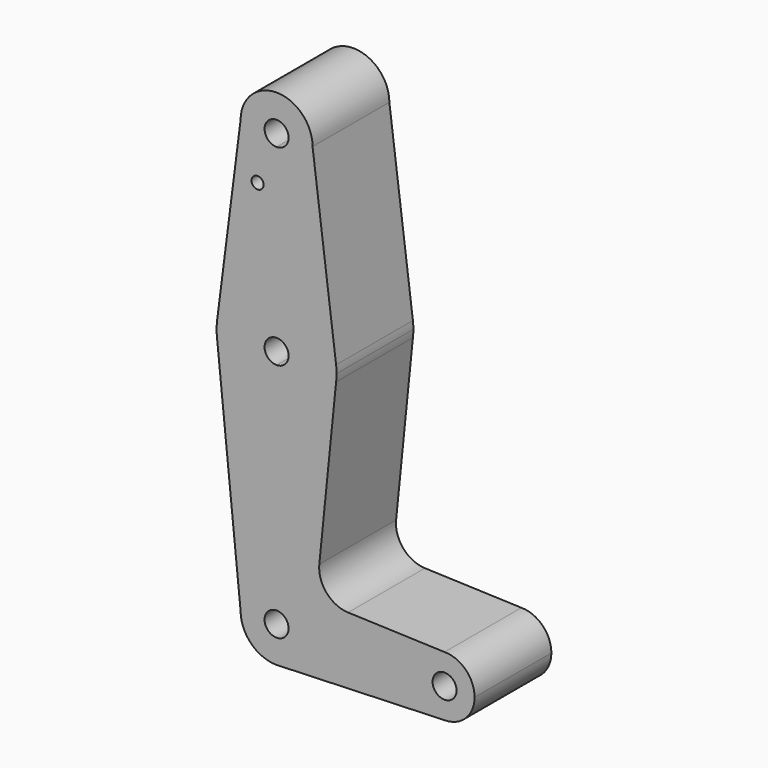
from build123d import *

# Parameters (mm, degrees)
F0_R     = 1.5875
F1_DEPTH = 25.4


with BuildPart() as f1:
    # F0 (on Front) → F1 (new body)
    with BuildSketch(Plane.XZ):
        with BuildLine():
            ThreePointArc((-53.4077063203, 56.5580051482), (-46.6725142295, 59.3478130574), (-43.8827063203, 66.0830051482))
            ThreePointArc((-43.8827063203, 66.0830051482), (-53.4077063203, 75.6080051482), (-62.9327063203, 66.0830051482))
            ThreePointArc((-62.9327063203, 66.0830051482), (-60.1428984111, 59.3478130574), (-53.4077063203, 56.5580051482))
        make_face()
        with BuildLine():
            ThreePointArc((-50.2327063203, 66.0830051482), (-51.16264229, 63.8379411179), (-53.4077063203, 62.9080051482))
            ThreePointArc((-53.4077063203, 62.9080051482), (-55.6527703506, 68.3280691784), (-50.2327063203, 66.0830051482))
        make_face(mode=Mode.SUBTRACT)
        with BuildLine():
            Line((-37.6602494156, 17.2912944785), (-43.8827063203, 66.0830051482))
            ThreePointArc((-43.8827063203, 66.0830051482), (-46.6725142295, 59.3478130574), (-53.4077063203, 56.5580051482))
            Line((-53.4077063203, 56.5580051482), (-53.4077063203, 31.1580051482))
            ThreePointArc((-53.4077063203, 31.1580051482), (-42.9164234654, 27.1972239249), (-37.6602494156, 17.2912944785))
        make_face()
        with BuildLine():
            ThreePointArc((-53.4077063203, 56.5580051482), (-60.1428984111, 59.3478130574), (-62.9327063203, 66.0830051482))
            Line((-62.9327063203, 66.0830051482), (-69.155163225, 17.2912944785))
            ThreePointArc((-69.155163225, 17.2912944785), (-63.8989891751, 27.1972239249), (-53.4077063203, 31.1580051482))
            Line((-53.4077063203, 31.1580051482), (-53.4077063203, 56.5580051482))
        make_face()
        with Locations((-58.4421381354, 52.9512051482)):
            Circle(F0_R, mode=Mode.SUBTRACT)
        with BuildLine():
            ThreePointArc((-37.5327063203, 15.2830051482), (-37.5646241807, 16.2891727877), (-37.6602494156, 17.2912944785))
            ThreePointArc((-37.6602494156, 17.2912944785), (-42.9164234654, 27.1972239249), (-53.4077063203, 31.1580051482))
            Line((-53.4077063203, 31.1580051482), (-53.4077063203, 18.4580051482))
            ThreePointArc((-53.4077063203, 18.4580051482), (-51.16264229, 17.5280691784), (-50.2327063203, 15.2830051482))
            ThreePointArc((-50.2327063203, 15.2830051482), (-51.16264229, 13.0379411179), (-53.4077063203, 12.1080051482))
            Line((-53.4077063203, 12.1080051482), (-53.4077063203, -0.5919948518))
            ThreePointArc((-53.4077063203, -0.5919948518), (-42.9164234654, 3.3687863714), (-37.6602494156, 13.2747158178))
            ThreePointArc((-37.6602494156, 13.2747158178), (-37.5646241807, 14.2768375086), (-37.5327063203, 15.2830051482))
        make_face()
        with BuildLine():
            ThreePointArc((-53.4077063203, 31.1580051482), (-63.8989891751, 27.1972239249), (-69.155163225, 17.2912944785))
            ThreePointArc((-69.155163225, 17.2912944785), (-69.2827063203, 15.2830051482), (-69.155163225, 13.2747158178))
            ThreePointArc((-69.155163225, 13.2747158178), (-63.8989891751, 3.3687863714), (-53.4077063203, -0.5919948518))
            Line((-53.4077063203, -0.5919948518), (-53.4077063203, 12.1080051482))
            ThreePointArc((-53.4077063203, 12.1080051482), (-56.5827063203, 15.2830051482), (-53.4077063203, 18.4580051482))
            Line((-53.4077063203, 18.4580051482), (-53.4077063203, 31.1580051482))
        make_face()
        with BuildLine():
            ThreePointArc((-53.4077063203, -0.5919948518), (-63.8989891751, 3.3687863714), (-69.155163225, 13.2747158178))
            Line((-69.155163225, 13.2747158178), (-62.9327063203, -48.2169948518))
            ThreePointArc((-62.9327063203, -48.2169948518), (-60.1428984111, -41.481802761), (-53.4077063203, -38.6919948518))
            Line((-53.4077063203, -38.6919948518), (-53.4077063203, -0.5919948518))
        make_face()
        with BuildLine():
            Line((-42.102295446, -30.6225764362), (-37.6602494156, 13.2747158178))
            ThreePointArc((-37.6602494156, 13.2747158178), (-42.9164234654, 3.3687863714), (-53.4077063203, -0.5919948518))
            Line((-53.4077063203, -0.5919948518), (-53.4077063203, -38.6919948518))
            ThreePointArc((-53.4077063203, -38.6919948518), (-46.6725142295, -41.481802761), (-43.8827063203, -48.2169948518))
            Line((-43.8827063203, -48.2169948518), (-16.8952063203, -48.2169948518))
            ThreePointArc((-16.8952063203, -48.2169948518), (-14.570366396, -42.6043347762), (-8.9577063203, -40.2794948518))
            Line((-8.9577063203, -40.2794948518), (-34.4762444457, -39.3681184902))
            ThreePointArc((-34.4762444457, -39.3681184902), (-40.1845456585, -36.6480145197), (-42.102295446, -30.6225764362))
        make_face()
        with BuildLine():
            ThreePointArc((-53.4077063203, -38.6919948518), (-60.1428984111, -41.481802761), (-62.9327063203, -48.2169948518))
            ThreePointArc((-62.9327063203, -48.2169948518), (-60.1953592391, -54.8993142736), (-53.556665826, -57.7408300071))
            Line((-53.556665826, -57.7408300071), (-52.5845948483, -57.7063632452))
            ThreePointArc((-52.5845948483, -57.7063632452), (-46.3875296213, -54.6545987628), (-43.8827063203, -48.2169948518))
            Line((-43.8827063203, -48.2169948518), (-50.2327063203, -48.2169948518))
            ThreePointArc((-50.2327063203, -48.2169948518), (-55.6527703506, -50.4620588821), (-53.4077063203, -45.0419948518))
            Line((-53.4077063203, -45.0419948518), (-53.4077063203, -38.6919948518))
        make_face()
        with BuildLine():
            Line((-52.5845948483, -57.7063632452), (-53.556665826, -57.7408300071))
            ThreePointArc((-53.556665826, -57.7408300071), (-53.0701900869, -57.7360130676), (-52.5845948483, -57.7063632452))
        make_face()
        with BuildLine():
            Line((-16.8952063203, -48.2169948518), (-43.8827063203, -48.2169948518))
            ThreePointArc((-43.8827063203, -48.2169948518), (-46.3875296213, -54.6545987628), (-52.5845948483, -57.7063632452))
            Line((-52.5845948483, -57.7063632452), (-8.6764427924, -56.1495100316))
            ThreePointArc((-8.6764427924, -56.1495100316), (-14.4700278366, -53.9282309484), (-16.8952063203, -48.2169948518))
        make_face()
        with BuildLine():
            ThreePointArc((-1.0202063203, -48.2169948518), (-3.3450462446, -42.6043347762), (-8.9577063203, -40.2794948518))
            ThreePointArc((-8.9577063203, -40.2794948518), (-14.570366396, -42.6043347762), (-16.8952063203, -48.2169948518))
            ThreePointArc((-16.8952063203, -48.2169948518), (-14.4700278366, -53.9282309484), (-8.6764427924, -56.1495100316))
            ThreePointArc((-8.6764427924, -56.1495100316), (-3.2464702237, -53.7293163681), (-1.0202063203, -48.2169948518))
        make_face()
        with BuildLine():
            ThreePointArc((-5.7827063203, -48.2169948518), (-8.9577063203, -51.3919948518), (-12.1327063203, -48.2169948518))
            ThreePointArc((-12.1327063203, -48.2169948518), (-8.9577063203, -45.0419948518), (-5.7827063203, -48.2169948518))
        make_face(mode=Mode.SUBTRACT)
        with BuildLine():
            ThreePointArc((-43.8827063203, -48.2169948518), (-46.6725142295, -41.481802761), (-53.4077063203, -38.6919948518))
            Line((-53.4077063203, -38.6919948518), (-53.4077063203, -45.0419948518))
            ThreePointArc((-53.4077063203, -45.0419948518), (-51.16264229, -45.9719308216), (-50.2327063203, -48.2169948518))
            Line((-50.2327063203, -48.2169948518), (-43.8827063203, -48.2169948518))
        make_face()
    extrude(amount=F1_DEPTH)


solid = f1.part
